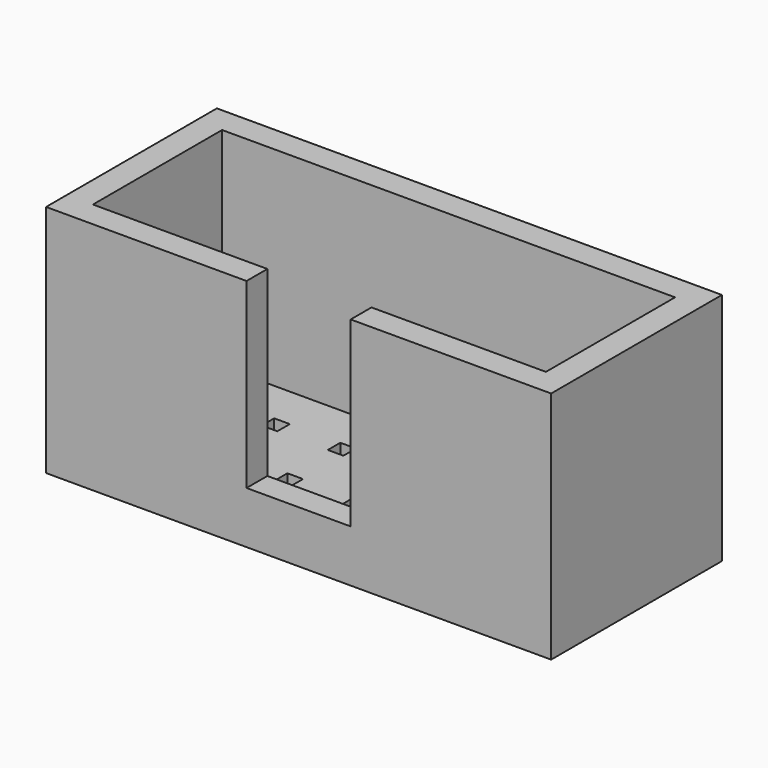
from build123d import *

# Parameters (mm, degrees)
F0_W     = 17.4
F0_H     = 6.2
F1_DEPTH = 1
F0_W_2   = 19.4
F0_H_2   = 8.2
F2_DEPTH = 9
F3_W     = 4
F3_H     = 7
F4_DEPTH = 2
F5_W     = 0.6
F5_H     = 0.6
F6_DEPTH = 25


with BuildPart() as f1:
    # F0 (on Top) → F1 (new body)
    with BuildSketch(Plane.XY):
        with Locations((1.278801, 13.346958)):
            Rectangle(F0_W, F0_H)
    extrude(amount=F1_DEPTH)

    # F0 (on Top) → F2 (join)
    with BuildSketch(Plane.XY):
        with Locations((1.278801, 13.346958)):
            Rectangle(F0_W_2, F0_H_2)
        with Locations((1.278801, 13.346958)):
            Rectangle(F0_W, F0_H, mode=Mode.SUBTRACT)
    extrude(amount=F2_DEPTH)

    # F3 (on face) → F4 (cut)
    with BuildSketch(Plane.XZ.offset(-9.246958)):
        with Locations((1.278801, 5.5)):
            Rectangle(F3_W, F3_H)
    extrude(amount=-F4_DEPTH, mode=Mode.SUBTRACT)

    # F5 (on face) → F6 (cut)
    with BuildSketch(Plane.XY.offset(1)):
        with Locations((-3.801199, 11.958958)):
            Rectangle(F5_W, F5_H)
        with Locations((-3.801199, 14.498958)):
            Rectangle(F5_W, F5_H)
        with Locations((-1.261199, 14.498958)):
            Rectangle(F5_W, F5_H)
        with Locations((-1.261199, 11.958958)):
            Rectangle(F5_W, F5_H)
        with Locations((1.278801, 11.958958)):
            Rectangle(F5_W, F5_H)
        with Locations((1.278801, 14.498958)):
            Rectangle(F5_W, F5_H)
        with Locations((3.818801, 11.958958)):
            Rectangle(F5_W, F5_H)
        with Locations((3.818801, 14.498958)):
            Rectangle(F5_W, F5_H)
        with Locations((6.358801, 14.498958)):
            Rectangle(F5_W, F5_H)
        with Locations((6.358801, 11.958958)):
            Rectangle(F5_W, F5_H)
    extrude(amount=-F6_DEPTH, mode=Mode.SUBTRACT)


solid = f1.part
